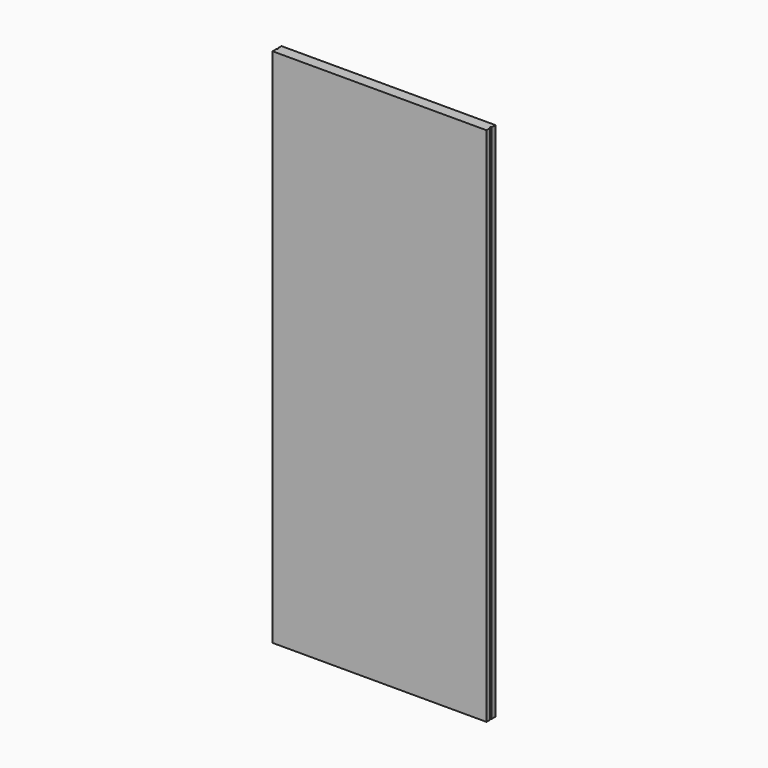
from build123d import *

# Parameters (mm, degrees)
F1_DEPTH = 2800


with BuildPart() as f1:
    # F0 (on Top) → F1 (new body)
    with BuildSketch(Plane.XY):
        with BuildLine():
            Line((0, 25), (0, 0))
            Line((0, 0), (1150, 0))
            Line((1150, 0), (1150, 25))
            ThreePointArc((1150, 25), (1145, 30), (1150, 35))
            Line((1150, 35), (1150, 60))
            Line((1150, 60), (0, 60))
            Line((0, 60), (0, 35))
            ThreePointArc((0, 35), (3.535534, 33.535534), (5, 30))
            ThreePointArc((5, 30), (3.535534, 26.464466), (0, 25))
        make_face()
    extrude(amount=F1_DEPTH)


solid = f1.part
